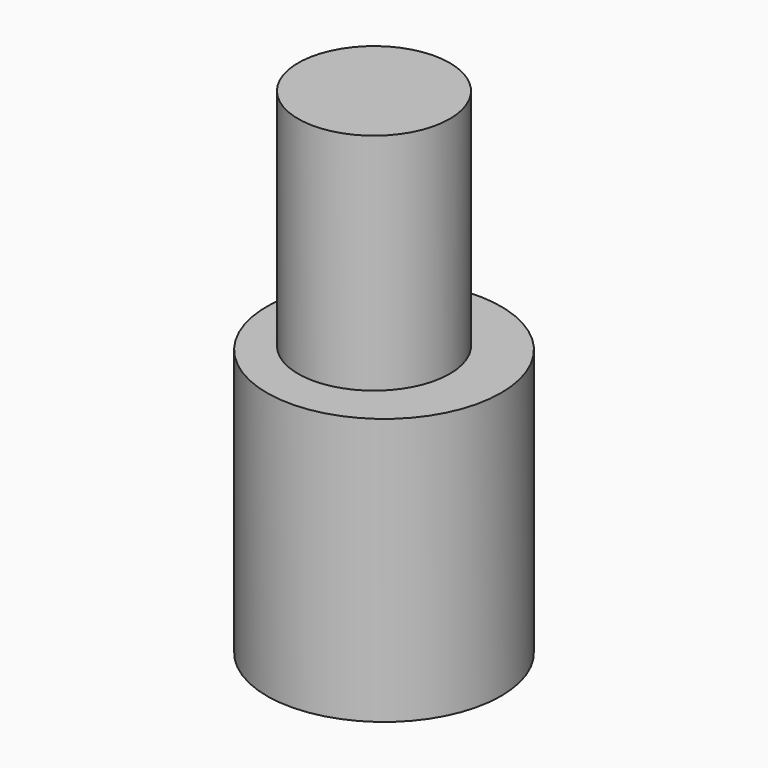
from build123d import *

# Parameters (mm, degrees)
F0_R      = 26.44498
F1_DEPTH  = 5.181627
F1_FACE_R = 26.44498
F2_DEPTH  = 55.07613
F3_R      = 17.120635
F4_DEPTH  = 110.949099


with BuildPart() as f1:
    # F0 (on Top) → F1 (new body)
    with BuildSketch(Plane.XY):
        with Locations((-31.49575, 22.197023)):
            Circle(F0_R)
    extrude(amount=F1_DEPTH)

    # F1_face (on face) → F2 (join)
    with BuildSketch(Plane(origin=(-31.49575, 22.197023, 5.181627), x_dir=(1, 0, 0), z_dir=(0, 0, 1))):
        Circle(F1_FACE_R)
    extrude(amount=F2_DEPTH)

    # F3 (on Top) → F4 (join)
    with BuildSketch(Plane.XY):
        with Locations((-33.796612, 22.234606)):
            Circle(F3_R)
        with Locations((-33.796612, 22.234606)):
            Circle(F3_R)
    extrude(amount=F4_DEPTH)


solid = f1.part
